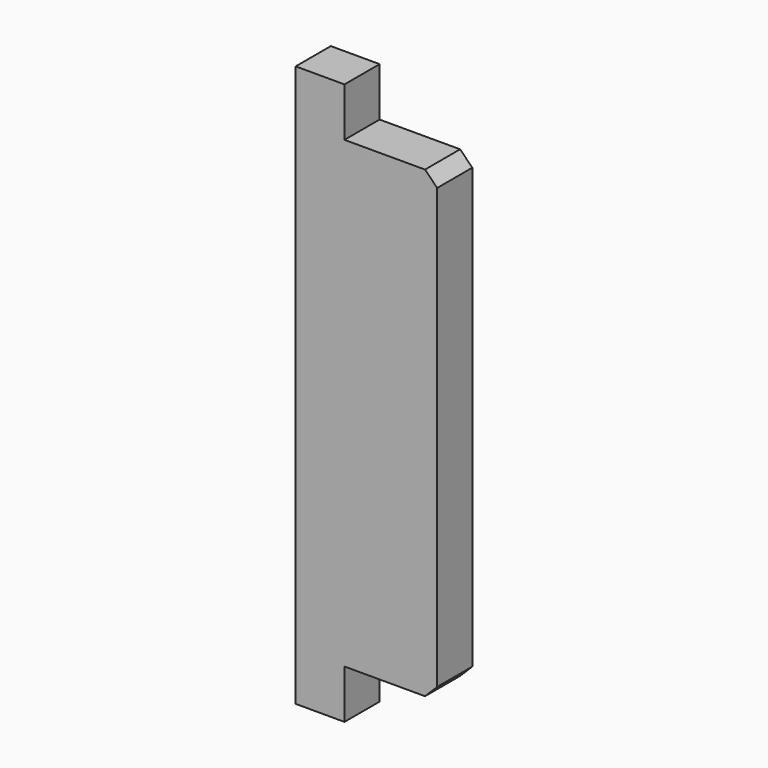
from build123d import *

# Parameters (mm, degrees)
F1_DEPTH = 18
F2_SIZE  = 5


with BuildPart() as f1:
    # F0 (on Front) → F1 (new body)
    with BuildSketch(Plane.XZ):
        Polygon((0, 230), (0, 0), (20, 0), (20, 20), (58, 20), (58, 210), (20, 210), (20, 230), align=None)
    extrude(amount=F1_DEPTH)

    # F2
    f2_edges = [f1.edges().sort_by_distance(p)[0] for p in [
        (58, -9, 210),
        (58, -9, 20),
    ]]
    chamfer(f2_edges, length=F2_SIZE)


solid = f1.part
